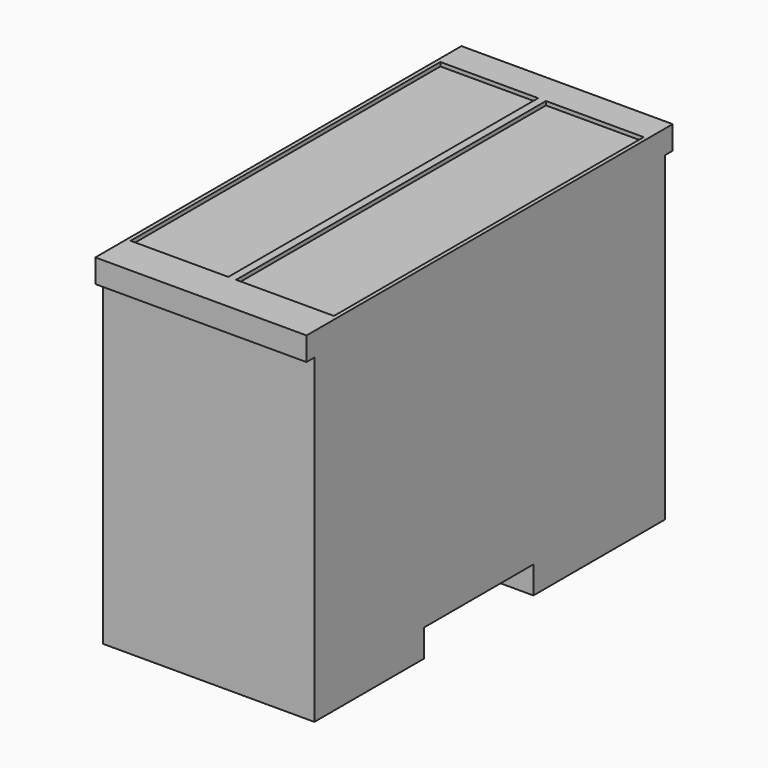
from build123d import *

# Parameters (mm, degrees)
F0_W     = 27
F0_H     = 117
F0_W_2   = 25
F0_H_2   = 99
F1_DEPTH = 88
F2_DEPTH = 1
F3_W     = 54
F3_H     = 2.5
F4_DEPTH = 82
F5_W     = 35
F5_H     = 7
F6_DEPTH = 54


with BuildPart() as f1:
    # F0 (on Top) → F1 (new body)
    with BuildSketch(Plane.XY):
        with Locations((-13.5, 0)):
            Rectangle(F0_W, F0_H)
        with Locations((-13.5, 1)):
            Rectangle(F0_W_2, F0_H_2, mode=Mode.SUBTRACT)
        with Locations((13.5, 0)):
            Rectangle(F0_W, F0_H)
        with Locations((13.5, 1)):
            Rectangle(F0_W_2, F0_H_2, mode=Mode.SUBTRACT)
        with Locations((-13.5, 1)):
            Rectangle(F0_W_2, F0_H_2)
        with Locations((13.5, 1)):
            Rectangle(F0_W_2, F0_H_2)
    extrude(amount=-F1_DEPTH)

    # F0 (on Top) → F2 (cut)
    with BuildSketch(Plane.XY):
        with Locations((-13.5, 1)):
            Rectangle(F0_W_2, F0_H_2)
        with Locations((13.5, 1)):
            Rectangle(F0_W_2, F0_H_2)
    extrude(amount=-F2_DEPTH, mode=Mode.SUBTRACT)

    # F3 (on face) → F4 (cut)
    with BuildSketch(Plane(origin=(0, 0, -88), x_dir=(1, 0, 0), z_dir=(0, 0, -1))):
        with Locations((0, 57.25)):
            Rectangle(F3_W, F3_H)
        with Locations((0, -57.25)):
            Rectangle(F3_W, F3_H)
    extrude(amount=-F4_DEPTH, mode=Mode.SUBTRACT)

    # F5 (on face) → F6 (cut, through all)
    with BuildSketch(Plane.YZ.offset(27)):
        with Locations((-3.5, -84.5)):
            Rectangle(F5_W, F5_H)
    extrude(amount=-F6_DEPTH, mode=Mode.SUBTRACT)


solid = f1.part
